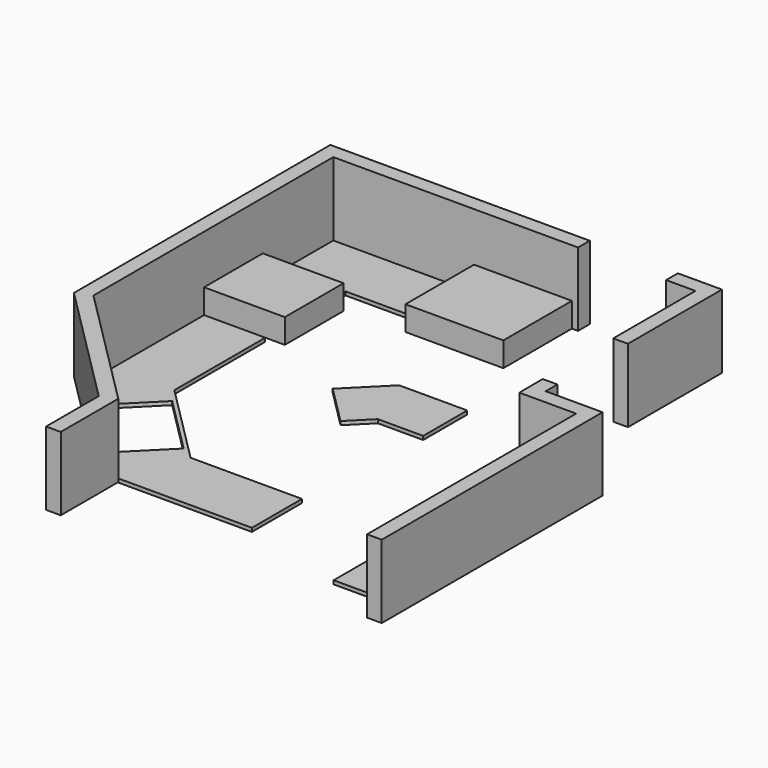
from build123d import *

# Parameters (mm, degrees)
F0_W     = 622.3
F0_H     = 1701.8
F1_DEPTH = 38.1
F3_DEPTH = 254
F5_DEPTH = 762
F6_DEPTH = 25.4


with BuildPart() as f1:
    # F0 (on Top) → F1 (new body)
    with BuildSketch(Plane.XY):
        Polygon((-215.526147, -215.526147), (0, 0), (469.9, 0), (469.9, 571.5), (-236.723051, 571.5), (-619.637672, 188.585379), align=None)
        with Locations((1797.05, -1580.744075)):
            Rectangle(F0_W, F0_H)
        Polygon((-2241.144075, 2222.5), (-2241.144075, 1308.1), (-1606.144075, 1308.1), (-1606.144075, 1587.5), (-780.644075, 1587.5), (-780.644075, 2222.5), align=None)
        Polygon((-1003.3, -2126.844075), (393.7, -2126.844075), (393.7, -1477.556575), (-762, -1477.556575), (-1606.144075, -633.4125), (-1606.144075, 546.1), (-2241.144075, 546.1), (-2241.144075, -889), align=None)
        Polygon((-1895.348777, -1188.351873), (-1500.217508, -793.220604), (-907.520604, -1385.917508), (-1302.651873, -1781.048777), align=None, mode=Mode.SUBTRACT)
    extrude(amount=F1_DEPTH)



with BuildPart() as f3:
    # F2 (on face) → F3 (new body)
    with BuildSketch(Plane.XY.offset(38.1)):
        Polygon((235.355925, 2222.5), (-780.644075, 2222.5), (-780.644075, 1587.5), (-780.644075, 1333.5), (235.355925, 1333.5), align=None)
        Polygon((-1606.144075, 1308.1), (-2241.144075, 1308.1), (-2241.144075, 546.1), (-1606.144075, 546.1), (-1402.944075, 546.1), (-1402.944075, 1308.1), align=None)
    extrude(amount=F3_DEPTH)


with BuildPart() as f5:
    # F4 (on face) → F5 (new body)
    with BuildSketch(Plane.XY.offset(38.1)):
        Polygon((-2241.144075, 1308.1), (-2241.144075, 2222.5), (-780.644075, 2222.5), (298.855925, 2222.5), (298.855925, 2374.9), (-2393.544075, 2374.9), (-2393.544075, -952.126147), (-1104.9, -2240.770222), (-1104.9, -2923.756123), (-952.5, -2923.756123), (-952.5, -2177.644075), (-2241.144075, -889), (-2241.144075, 546.1), align=None)
        Polygon((2108.2, -63.5), (2108.2, -425.044075), (2108.2, -729.844075), (2108.2, -2775.994823), (2260.6, -2775.994823), (2260.6, 88.9), (1670.455925, 88.9), (1670.455925, 241.3), (1518.055925, 241.3), (1518.055925, -63.5), align=None)
        Polygon((1670.455925, 2374.9), (1213.255925, 2374.9), (1213.255925, 2222.5), (1518.055925, 2222.5), (1518.055925, 1155.7), (1670.455925, 1155.7), align=None)
    extrude(amount=F5_DEPTH)


with BuildPart() as f1_1:
    add(f1.part)

    add(f5.part)  # F6 merges F5
    # F4 (on face) → F6 (join)
    with BuildSketch(Plane.XY.offset(38.1)):
        Polygon((2108.2, -729.844075), (2108.2, -425.044075), (2108.2, -63.5), (1518.055925, -63.5), (1518.055925, -729.844075), align=None)
    extrude(amount=F6_DEPTH)


solid = Compound([f3.part, f1_1.part])
